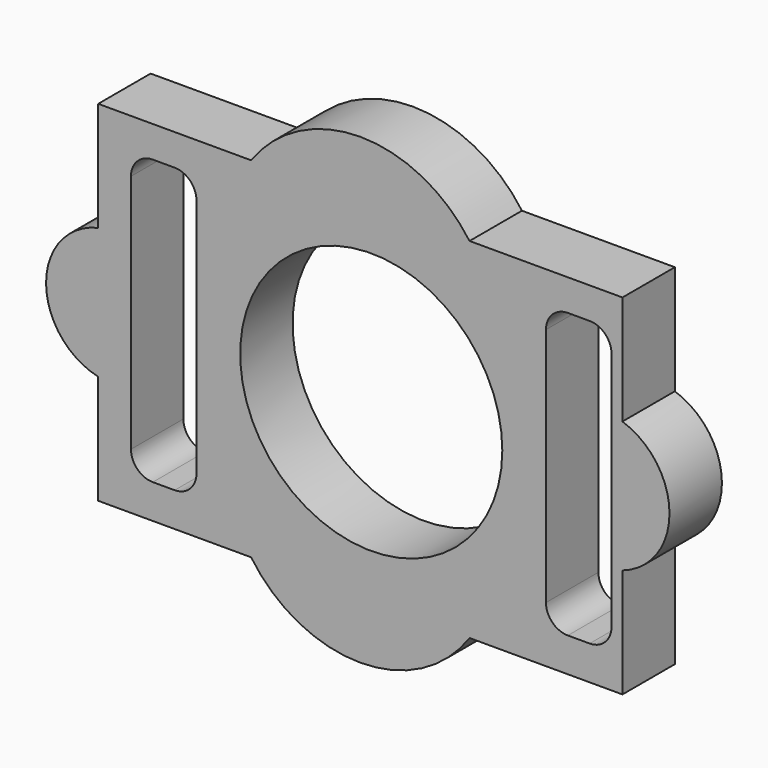
from build123d import *

# Parameters (mm, degrees)
F0_R     = 60
F1_DEPTH = 30


with BuildPart() as f1:
    # F0 (on Front) → F1 (new body)
    with BuildSketch(Plane.XZ):
        Polygon((-55, 79.594996), (-125, 79.594996), (-125, 29.594996), (-125, -30.405004), (-125, -80.405004), (-55, -80.405004), (45, -80.405004), (115, -80.405004), (115, -30.405004), (115, 29.594996), (115, 79.594996), (45, 79.594996), align=None)
        with BuildLine():
            ThreePointArc((-110, 55.243649), (-107.071068, 62.314716), (-100, 65.243649))
            Line((-100, 65.243649), (-90, 65.243649))
            ThreePointArc((-90, 65.243649), (-82.928932, 62.314716), (-80, 55.243649))
            Line((-80, 55.243649), (-80, -54.756351))
            ThreePointArc((-80, -54.756351), (-82.928932, -61.827419), (-90, -64.756351))
            Line((-90, -64.756351), (-100, -64.756351))
            ThreePointArc((-100, -64.756351), (-107.071068, -61.827419), (-110, -54.756351))
            Line((-110, -54.756351), (-110, 55.243649))
        make_face(mode=Mode.SUBTRACT)
        Circle(F0_R, mode=Mode.SUBTRACT)
        with BuildLine():
            ThreePointArc((80, 55.243649), (82.928932, 62.314716), (90, 65.243649))
            Line((90, 65.243649), (100, 65.243649))
            ThreePointArc((100, 65.243649), (107.071068, 62.314716), (110, 55.243649))
            Line((110, 55.243649), (110, -54.756351))
            ThreePointArc((110, -54.756351), (107.071068, -61.827419), (100, -64.756351))
            Line((100, -64.756351), (90, -64.756351))
            ThreePointArc((90, -64.756351), (82.928932, -61.827419), (80, -54.756351))
            Line((80, -54.756351), (80, 55.243649))
        make_face(mode=Mode.SUBTRACT)
        with BuildLine():
            Line((-125, -30.405004), (-125, 29.594996))
            ThreePointArc((-125, 29.594996), (-148.860331, -0.405004), (-125, -30.405004))
        make_face()
        with BuildLine():
            ThreePointArc((45, 79.594996), (-5, 105.335071), (-55, 79.594996))
            Line((-55, 79.594996), (45, 79.594996))
        make_face()
        with BuildLine():
            Line((45, -80.405004), (-55, -80.405004))
            ThreePointArc((-55, -80.405004), (-5, -106.628586), (45, -80.405004))
        make_face()
        with BuildLine():
            ThreePointArc((115, -30.405004), (136.54259, -0.405004), (115, 29.594996))
            Line((115, 29.594996), (115, -30.405004))
        make_face()
    extrude(amount=F1_DEPTH)


solid = f1.part
